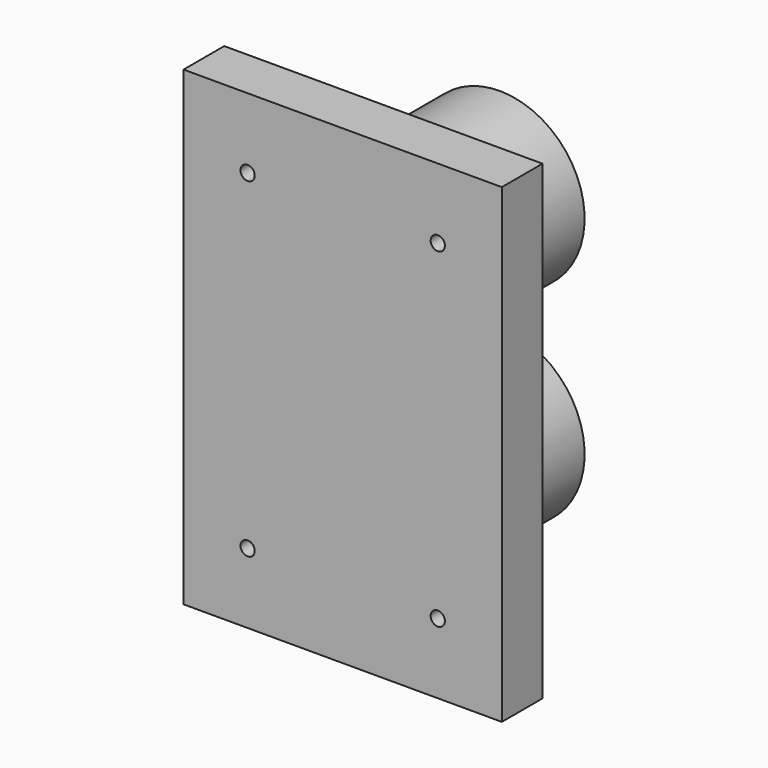
from build123d import *

# Parameters (mm, degrees)
F0_W     = 79.502
F0_H     = 117.602
F1_DEPTH = 12.7
F2_R     = 1.778
F3_DEPTH = 12.701
F4_R     = 21.209
F5_DEPTH = 36.322


with BuildPart() as f1:
    # F0 (on Front) → F1 (new body)
    with BuildSketch(Plane.XZ):
        Rectangle(F0_W, F0_H)
    extrude(amount=F1_DEPTH)

    # F2 (on face) → F3 (cut, through all)
    with BuildSketch(Plane.XZ.offset(12.7)):
        with Locations((-23.749, 41.275)):
            Circle(F2_R)
        with Locations((23.749, 41.275)):
            Circle(F2_R)
        with Locations((-23.749, -41.275)):
            Circle(F2_R)
        with Locations((23.749, -41.275)):
            Circle(F2_R)
    extrude(amount=-F3_DEPTH, mode=Mode.SUBTRACT)

    # F4 (on face) → F5 (join)
    with BuildSketch(Plane(origin=(0, 0, 0), x_dir=(-1, 0, 0), z_dir=(0, 1, 0))):
        with Locations((0, 25.908)):
            Circle(F4_R)
        with Locations((0, -25.908)):
            Circle(F4_R)
    extrude(amount=F5_DEPTH)


solid = f1.part
